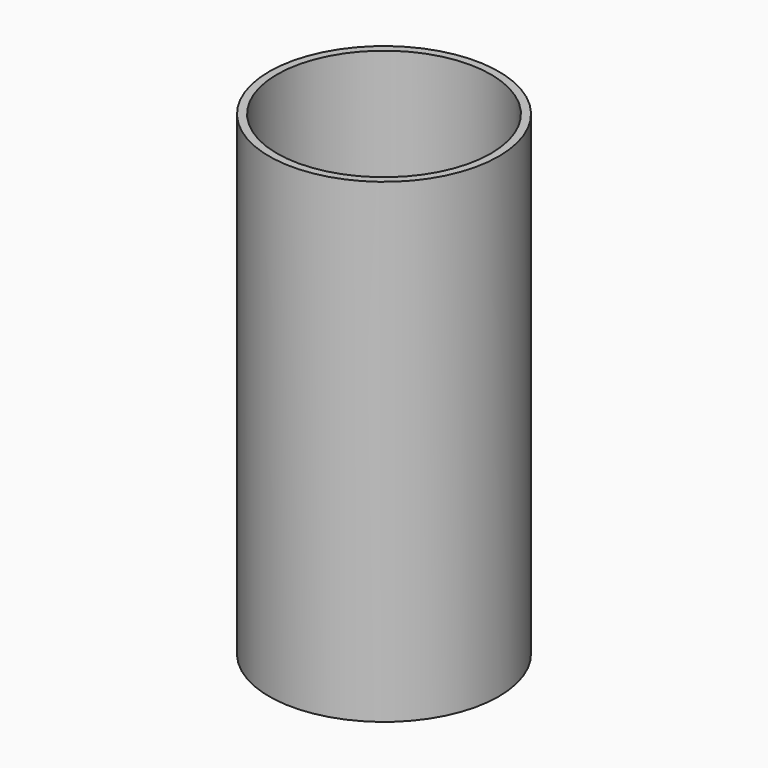
from build123d import *

# Parameters (mm, degrees)
F1_R     = 24.15
F1_R_2   = 22.5
F2_DEPTH = 100


with BuildPart() as f2:
    # F1 (on face) → F2 (new body)
    with BuildSketch(Plane.XY):
        Circle(F1_R)
        Circle(F1_R_2, mode=Mode.SUBTRACT)
    extrude(amount=F2_DEPTH)


solid = f2.part
